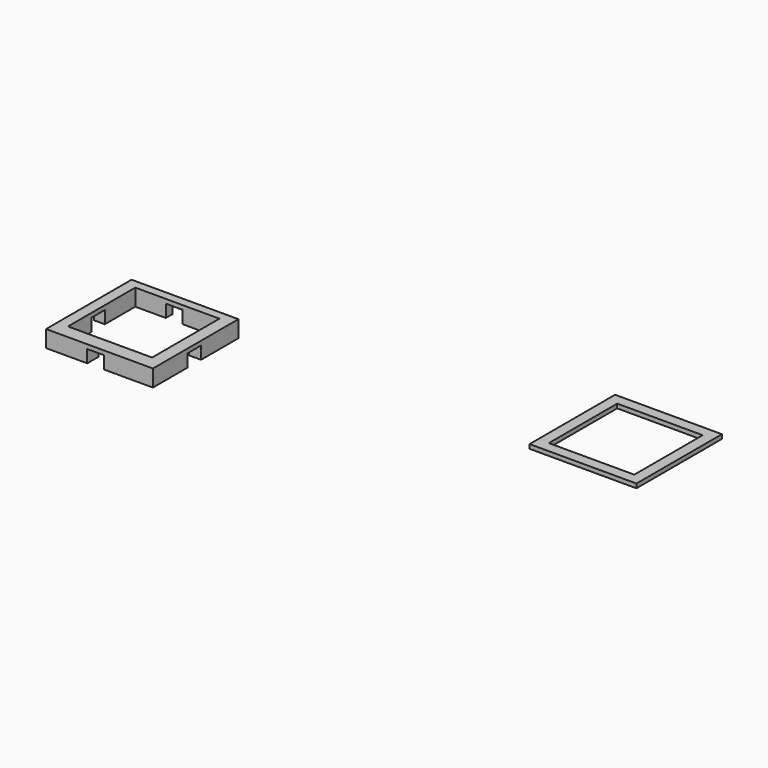
from build123d import *

# Parameters (mm, degrees)
F0_W     = 12.7
F0_H     = 12.7
F0_W_2   = 10.16
F0_H_2   = 10.16
F1_DEPTH = 0.5
F2_W     = 12.7
F2_H     = 12.7
F2_W_2   = 10
F2_H_2   = 10
F3_DEPTH = 2
F4_W     = 2
F4_H     = 1.5
F5_DEPTH = 25
F6_W     = 2
F6_H     = 1.5
F7_DEPTH = 25


with BuildPart() as f1:
    # F0 (on Top) → F1 (new body)
    with BuildSketch(Plane.XY):
        Rectangle(F0_W, F0_H)
        Rectangle(F0_W_2, F0_H_2, mode=Mode.SUBTRACT)
    extrude(amount=F1_DEPTH)


with BuildPart() as f3:
    # F2 (on Top) → F3 (new body)
    with BuildSketch(Plane.XY):
        with Locations((-47.690042, -12.228896)):
            Rectangle(F2_W, F2_H)
        with Locations((-47.778825, -11.904546)):
            Rectangle(F2_W_2, F2_H_2, mode=Mode.SUBTRACT)
    extrude(amount=F3_DEPTH)

    # F4 (on face) → F5 (cut)
    with BuildSketch(Plane.YZ.offset(-41.340042)):
        with Locations((-12.429796, 0.75)):
            Rectangle(F4_W, F4_H)
    extrude(amount=-F5_DEPTH, mode=Mode.SUBTRACT)

    # F6 (on face) → F7 (cut)
    with BuildSketch(Plane.XZ.offset(18.578896)):
        with Locations((-48.148615, 0.75)):
            Rectangle(F6_W, F6_H)
    extrude(amount=-F7_DEPTH, mode=Mode.SUBTRACT)


solid = Compound([f1.part, f3.part])
